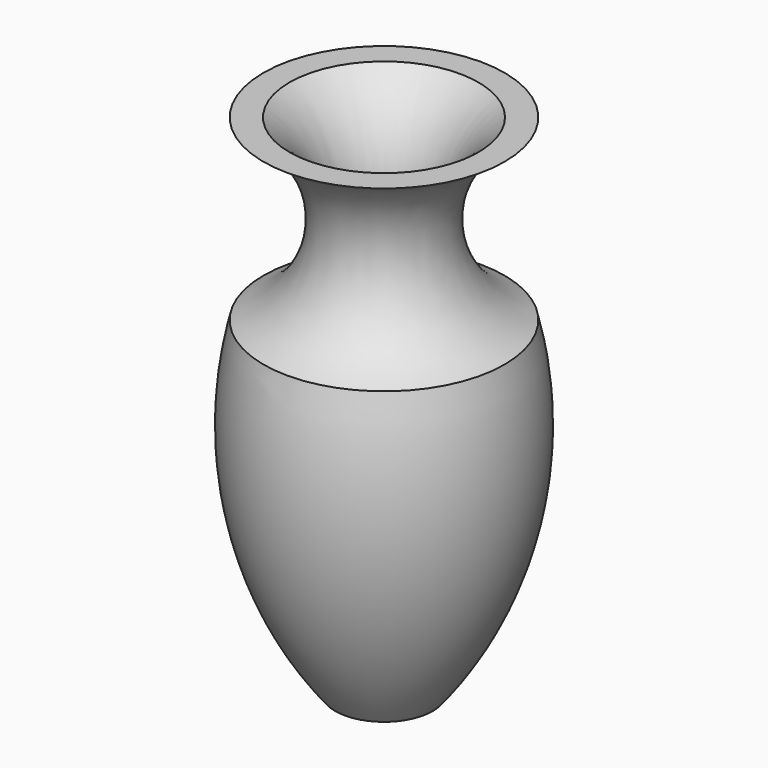
from build123d import *

# Parameters (mm, degrees)
F2_T = -5.08


with BuildPart() as f1:
    # F0 (on Front) → F1 (revolve)
    with BuildSketch(Plane.XZ):
        with BuildLine():
            Line((0, -131.642804), (0, 71.557196))
            Line((0, 71.557196), (-48.325643, 71.557196))
            ThreePointArc((-48.325643, 71.557196), (-24.461512, 35.778598), (-48.325643, 0))
            ThreePointArc((-48.325643, 0), (-49.450218, -69.203728), (-19.587493, -131.642804))
            Line((-19.587493, -131.642804), (0, -131.642804))
        make_face()
    revolve(axis=Axis((0, 0, -30.042804), (0, 0, -1)))

    # F2
    f2_openings = [f1.faces().sort_by_distance(p)[0] for p in [
        (0, 0, 71.557196),
    ]]
    offset(amount=F2_T, openings=f2_openings)


solid = f1.part
